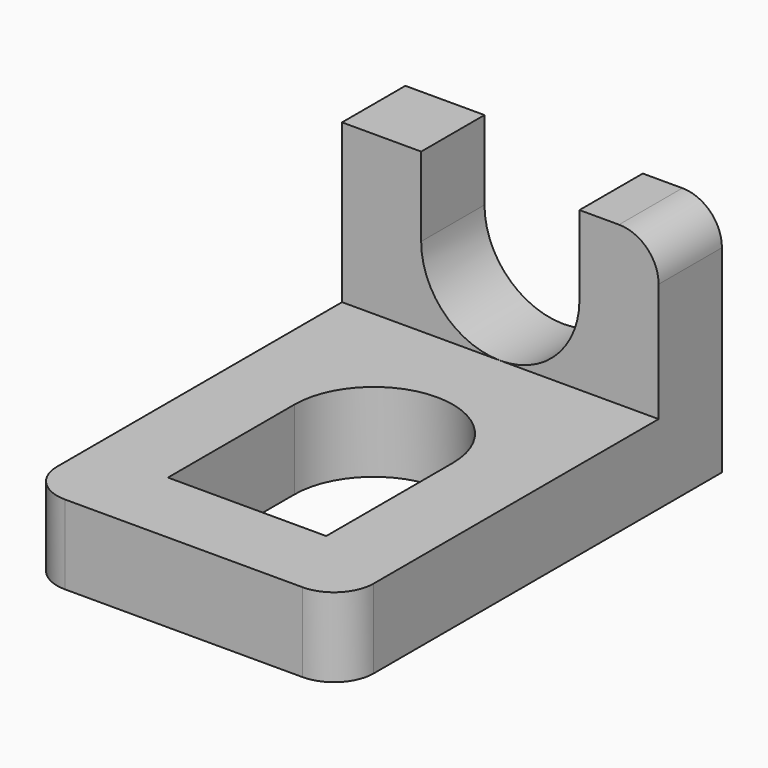
from build123d import *

# Parameters (mm, degrees)
F0_W      = 4
F0_H      = 3
F1_DEPTH  = 6
F2_R      = 0.5
F3_R      = 0.5
F5_DEPTH  = 25
F6_W      = 4
F6_H      = 5.8124
F7_DEPTH  = 2
F8_R      = 0.5
F10_DEPTH = 25


with BuildPart() as f1:
    # F0 (on Front) → F1 (new body)
    with BuildSketch(Plane.XZ):
        with Locations((2, 1.5)):
            Rectangle(F0_W, F0_H)
    extrude(amount=F1_DEPTH)

    # F2
    f2_edges = [f1.edges().sort_by_distance(p)[0] for p in [
        (4, -6, 1.5),
    ]]
    fillet(f2_edges, radius=F2_R)

    # F3
    f3_edges = [f1.edges().sort_by_distance(p)[0] for p in [
        (0, -6, 1.5),
    ]]
    fillet(f3_edges, radius=F3_R)

    # F4 (on face) → F5 (cut)
    with BuildSketch(Plane(origin=(0, 0, 0), x_dir=(-1, 0, 0), z_dir=(0, 1, 0))):
        with BuildLine():
            ThreePointArc((-3, 2), (-2, 1), (-1, 2))
            Line((-1, 2), (-2, 2))
            Line((-2, 2), (-3, 2))
        make_face()
        with BuildLine():
            Line((-2, 2), (-1, 2))
            ThreePointArc((-1, 2), (-2, 3), (-3, 2))
            Line((-3, 2), (-2, 2))
        make_face()
        with BuildLine():
            ThreePointArc((-3, 2), (-2.707107, 2.707107), (-2, 3))
            Line((-2, 3), (-3, 3))
            Line((-3, 3), (-3, 2))
        make_face()
        with BuildLine():
            Line((-1, 2), (-1, 3))
            Line((-1, 3), (-2, 3))
            ThreePointArc((-2, 3), (-1.292893, 2.707107), (-1, 2))
        make_face()
    extrude(amount=-F5_DEPTH, mode=Mode.SUBTRACT)

    # F6 (on face) → F7 (cut)
    with BuildSketch(Plane.XY.offset(3)):
        with Locations((2, -3.9062)):
            Rectangle(F6_W, F6_H)
    extrude(amount=-F7_DEPTH, mode=Mode.SUBTRACT)

    # F8
    f8_edges = [f1.edges().sort_by_distance(p)[0] for p in [
        (4, -0.5, 3),
    ]]
    fillet(f8_edges, radius=F8_R)

    # F9 (on face) → F10 (cut)
    with BuildSketch(Plane.XY.offset(1)):
        with BuildLine():
            ThreePointArc((1, -3), (2, -4), (3, -3))
            ThreePointArc((3, -3), (2, -2), (1, -3))
        make_face()
        with BuildLine():
            Line((3, -5), (3, -3))
            ThreePointArc((3, -3), (2, -4), (1, -3))
            Line((1, -3), (1, -5))
            Line((1, -5), (3, -5))
        make_face()
    extrude(amount=-F10_DEPTH, mode=Mode.SUBTRACT)


solid = f1.part
